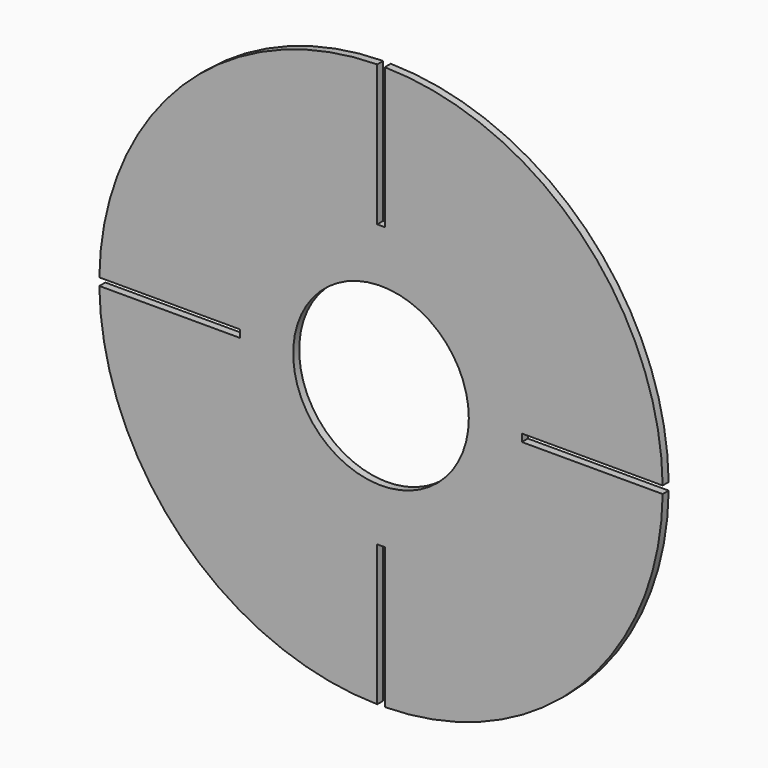
from build123d import *

# Parameters (mm, degrees)
F0_R     = 23.380421
F1_DEPTH = 2


with BuildPart() as f1:
    # F0 (on Front) → F1 (new body)
    with BuildSketch(Plane.XZ):
        with BuildLine():
            Line((-309.546484, 89.288475), (-309.546484, 126.781808))
            ThreePointArc((-309.546484, 126.781808), (-361.579492, 104.821484), (-383.539817, 52.788475))
            Line((-383.539817, 52.788475), (-346.046484, 52.788475))
            Line((-346.046484, 52.788475), (-346.046484, 51.788475))
            Line((-346.046484, 51.788475), (-346.046484, 50.788475))
            Line((-346.046484, 50.788475), (-383.539817, 50.788475))
            ThreePointArc((-383.539817, 50.788475), (-361.579492, -1.244533), (-309.546484, -23.204858))
            Line((-309.546484, -23.204858), (-309.546484, 14.288475))
            Line((-309.546484, 14.288475), (-307.546484, 14.288475))
            Line((-307.546484, 14.288475), (-307.546484, -23.204858))
            ThreePointArc((-307.546484, -23.204858), (-255.513475, -1.244533), (-233.55315, 50.788475))
            Line((-233.55315, 50.788475), (-271.046484, 50.788475))
            Line((-271.046484, 50.788475), (-271.046484, 51.788475))
            Line((-271.046484, 51.788475), (-271.046484, 52.788475))
            Line((-271.046484, 52.788475), (-233.55315, 52.788475))
            ThreePointArc((-233.55315, 52.788475), (-255.513475, 104.821484), (-307.546484, 126.781808))
            Line((-307.546484, 126.781808), (-307.546484, 89.288475))
            Line((-307.546484, 89.288475), (-309.546484, 89.288475))
        make_face()
        with Locations((-308.546484, 51.788475)):
            Circle(F0_R, mode=Mode.SUBTRACT)
    extrude(amount=F1_DEPTH)


solid = f1.part
